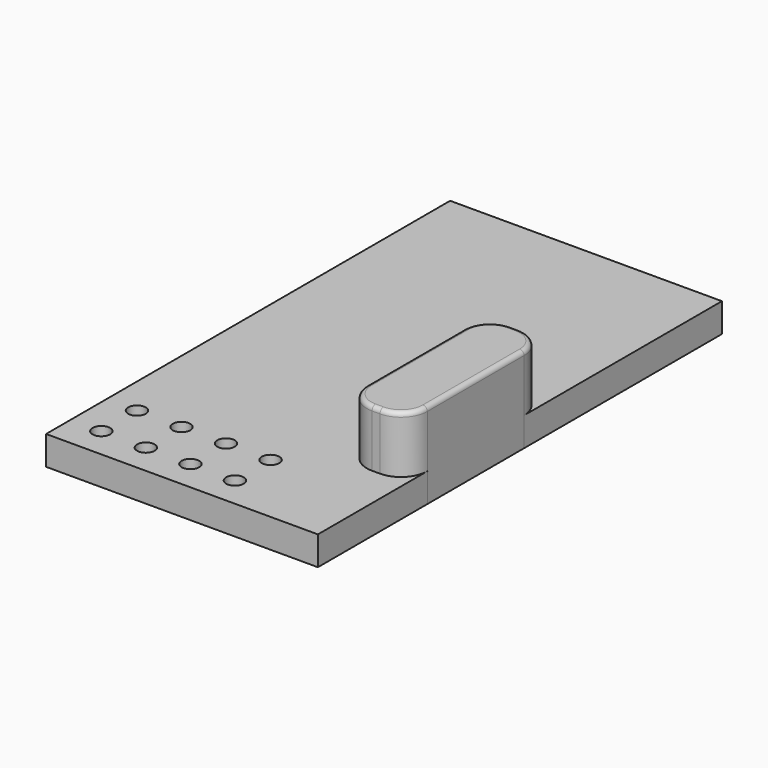
from build123d import *

# Parameters (mm, degrees)
F0_R     = 0.5
F1_DEPTH = 1.65
F2_DEPTH = 4.9
F3_R     = 0.25


with BuildPart() as f1:
    # F0 (on Top) → F1 (new body)
    with BuildSketch(Plane.XY):
        with BuildLine():
            Line((7.75, 0.3), (7.75, 14.4))
            Line((7.75, 14.4), (-7.75, 14.4))
            Line((-7.75, 14.4), (-7.75, -14.4))
            Line((-7.75, -14.4), (7.75, -14.4))
            Line((7.75, -14.4), (7.75, -6.6))
            ThreePointArc((7.75, -6.6), (7.31066, -7.66066), (6.25, -8.1))
            Line((6.25, -8.1), (5.8, -8.1))
            ThreePointArc((5.8, -8.1), (4.73934, -7.66066), (4.3, -6.6))
            Line((4.3, -6.6), (4.3, 0.3))
            ThreePointArc((4.3, 0.3), (4.73934, 1.36066), (5.8, 1.8))
            Line((5.8, 1.8), (6.25, 1.8))
            ThreePointArc((6.25, 1.8), (7.31066, 1.36066), (7.75, 0.3))
        make_face()
        with Locations((-6, -12.65)):
            Circle(F0_R, mode=Mode.SUBTRACT)
        with Locations((-6, -10.11)):
            Circle(F0_R, mode=Mode.SUBTRACT)
        with Locations((-3.46, -12.65)):
            Circle(F0_R, mode=Mode.SUBTRACT)
        with Locations((-0.92, -12.65)):
            Circle(F0_R, mode=Mode.SUBTRACT)
        with Locations((-3.46, -10.11)):
            Circle(F0_R, mode=Mode.SUBTRACT)
        with Locations((-0.92, -10.11)):
            Circle(F0_R, mode=Mode.SUBTRACT)
        with Locations((1.62, -12.65)):
            Circle(F0_R, mode=Mode.SUBTRACT)
        with Locations((1.62, -10.11)):
            Circle(F0_R, mode=Mode.SUBTRACT)
        with BuildLine():
            Line((7.75, -6.6), (7.75, 0.3))
            ThreePointArc((7.75, 0.3), (7.31066, 1.36066), (6.25, 1.8))
            Line((6.25, 1.8), (5.8, 1.8))
            ThreePointArc((5.8, 1.8), (4.73934, 1.36066), (4.3, 0.3))
            Line((4.3, 0.3), (4.3, -6.6))
            ThreePointArc((4.3, -6.6), (4.73934, -7.66066), (5.8, -8.1))
            Line((5.8, -8.1), (6.25, -8.1))
            ThreePointArc((6.25, -8.1), (7.31066, -7.66066), (7.75, -6.6))
        make_face()
    extrude(amount=F1_DEPTH)


with BuildPart() as f2:
    # F0 (on Top) → F2 (new body)
    with BuildSketch(Plane.XY):
        with BuildLine():
            Line((7.75, -6.6), (7.75, 0.3))
            ThreePointArc((7.75, 0.3), (7.31066, 1.36066), (6.25, 1.8))
            Line((6.25, 1.8), (5.8, 1.8))
            ThreePointArc((5.8, 1.8), (4.73934, 1.36066), (4.3, 0.3))
            Line((4.3, 0.3), (4.3, -6.6))
            ThreePointArc((4.3, -6.6), (4.73934, -7.66066), (5.8, -8.1))
            Line((5.8, -8.1), (6.25, -8.1))
            ThreePointArc((6.25, -8.1), (7.31066, -7.66066), (7.75, -6.6))
        make_face()
    extrude(amount=F2_DEPTH)

    # F3
    f3_edges = [f2.edges().sort_by_distance(p)[0] for p in [
        (7.75, -3.15, 4.9),
        (7.31066, 1.36066, 4.9),
        (6.025, 1.8, 4.9),
        (4.73934, 1.36066, 4.9),
        (4.3, -3.15, 4.9),
        (4.73934, -7.66066, 4.9),
        (6.025, -8.1, 4.9),
        (7.31066, -7.66066, 4.9),
    ]]
    fillet(f3_edges, radius=F3_R)


solid = Compound([f1.part, f2.part])
